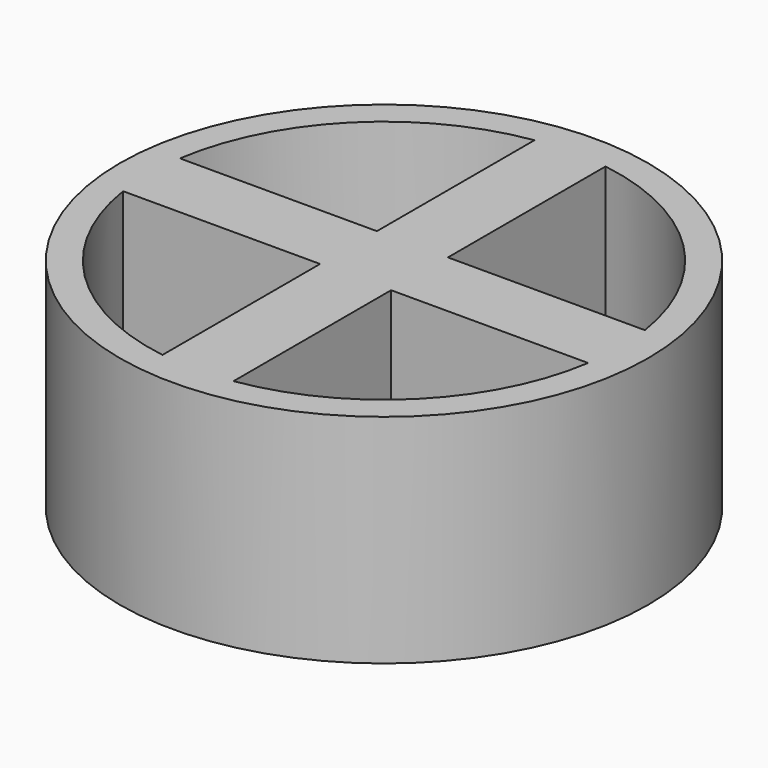
from build123d import *

# Parameters (mm, degrees)
F0_R     = 154.4831439064
F1_DEPTH = 127
F3_DEPTH = 127


with BuildPart() as f1:
    # F0 (on Top) → F1 (new body)
    with BuildSketch(Plane.XY):
        Circle(F0_R)
    extrude(amount=F1_DEPTH)

    # F2 (on face) → F3 (cut)
    with BuildSketch(Plane.XY.offset(127)):
        with BuildLine():
            Line((-20.7699300855, 20.7772), (-20.7699300855, 135.9860849065))
            ThreePointArc((-20.7699300855, 135.9860849065), (-97.2691976172, 97.2743978591), (-135.9849743321, 20.7772))
            Line((-135.9849743321, 20.7772), (-20.7699300855, 20.7772))
        make_face()
        with BuildLine():
            Line((20.7772, 20.7772), (135.9849743321, 20.7772))
            ThreePointArc((135.9849743321, 20.7772), (97.2717977729, 97.2717977729), (20.7772, 135.9849743321))
            Line((20.7772, 135.9849743321), (20.7772, 20.7772))
        make_face()
        with BuildLine():
            ThreePointArc((20.7772, -135.9849743321), (97.2717977729, -97.2717977729), (135.9849743321, -20.7772))
            Line((135.9849743321, -20.7772), (20.7772, -20.7772))
            Line((20.7772, -20.7772), (20.7772, -135.9849743321))
        make_face()
        with BuildLine():
            ThreePointArc((-135.9849743321, -20.7772), (-97.2691976172, -97.2743978591), (-20.7699300855, -135.9860849065))
            Line((-20.7699300855, -135.9860849065), (-20.7699300855, -20.7772))
            Line((-20.7699300855, -20.7772), (-135.9849743321, -20.7772))
        make_face()
    extrude(amount=-F3_DEPTH, mode=Mode.SUBTRACT)


solid = f1.part
